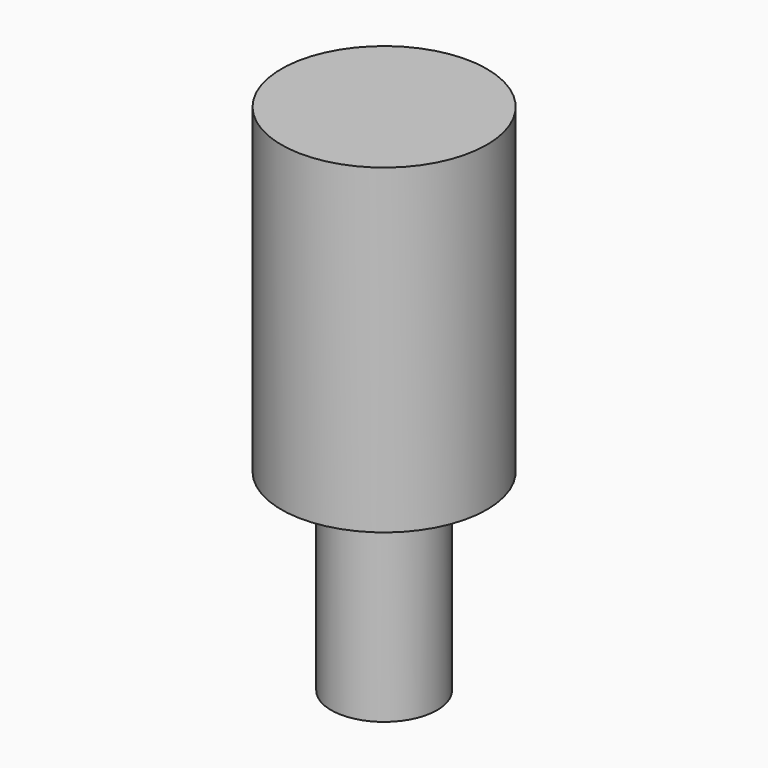
from build123d import *

# Parameters (mm, degrees)
CYLINDER_R        = 1.65
CYLINDER_DEPTH    = 10
CYLINDER001_R     = 3.2
CYLINDER001_DEPTH = 10


with BuildPart() as cylinder:
    # Cylinder → Cylinder (new body)
    with BuildSketch(Plane.XY.offset(-5)):
        Circle(CYLINDER_R)
    extrude(amount=CYLINDER_DEPTH)


with BuildPart() as m3:
    # Cylinder001 → Cylinder001 (new body)
    with BuildSketch(Plane.XY.offset(1)):
        Circle(CYLINDER001_R)
    extrude(amount=CYLINDER001_DEPTH)

    # Fusion004: union Cylinder
    add(cylinder.part)


solid = m3.part
